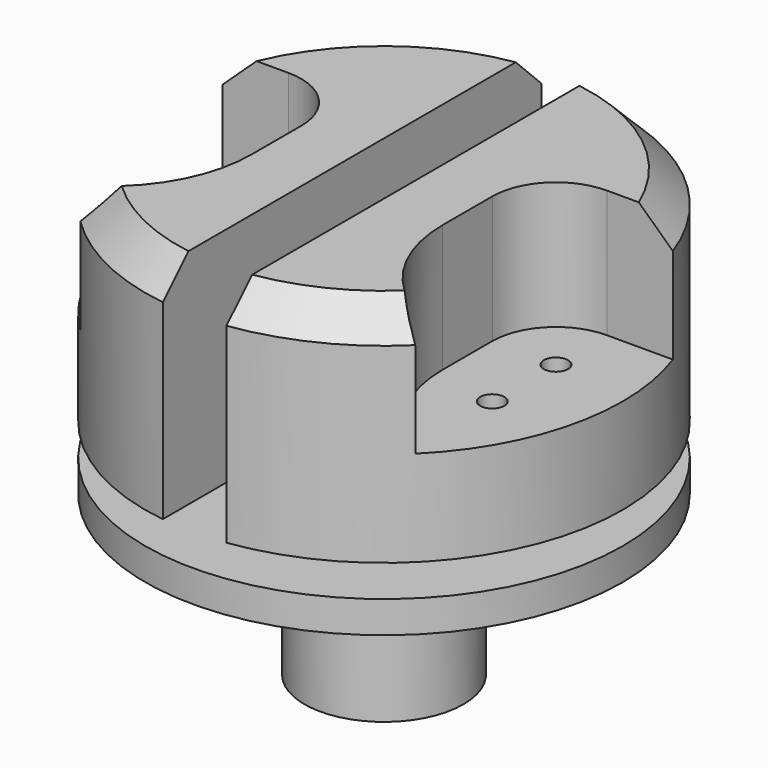
from build123d import *

# Parameters (mm, degrees)
F2_R     = 2.413
F3_DEPTH = 25.4
F4_DEPTH = 50.8
F5_DEPTH = 38.1
F8_SIZE  = 6.35


with BuildPart() as f1:
    # F0 (on Front) → F1 (revolve)
    with BuildSketch(Plane.XZ):
        Polygon((0, 0), (15.875, 0), (15.875, 25.4), (25.4, 25.4), (25.4, 31.75), (47.625, 31.75), (47.625, 38.1), (25.4, 38.1), (25.4, 44.45), (28.9087127894, 44.45), (47.625, 44.45), (47.625, 88.9), (0, 88.9), align=None)
    revolve(axis=Axis((0, 0, 44.45), (0, 0, -1)))

    # F2 (on face) → F3 (cut)
    with BuildSketch(Plane.XY.offset(88.9)):
        with BuildLine():
            ThreePointArc((47.625, 0), (46.9391314035, 8.0534817368), (44.9012806053, 15.875))
            Line((44.9012806053, 15.875), (31.75, 15.875))
            ThreePointArc((31.75, 15.875), (22.7697438789, 12.1552561211), (19.05, 3.175))
            Line((19.05, 3.175), (19.05, -9.1654355234))
            ThreePointArc((19.05, -9.1654355234), (22.8783240869, -23.4529355234), (33.3375, -33.9121114365))
            Line((33.3375, -33.9121114365), (33.4009492811, -33.9487438961))
            ThreePointArc((33.4009492811, -33.9487438961), (43.9252822103, -18.4040812795), (47.625, 0))
        make_face()
        with Locations((31.75, -12.7)):
            Circle(F2_R, mode=Mode.SUBTRACT)
        with Locations((31.75, 3.175)):
            Circle(F2_R, mode=Mode.SUBTRACT)
        with BuildLine():
            Line((-6.35, 47.1997682727), (-6.35, -10.9985226281))
            Line((-6.35, -10.9985226281), (0, -14.6646968374))
            Line((0, -14.6646968374), (6.35, -10.9985226281))
            Line((6.35, -10.9985226281), (6.35, 47.1997682727))
            ThreePointArc((6.35, 47.1997682727), (0, 47.625), (-6.35, 47.1997682727))
        make_face()
        with BuildLine():
            ThreePointArc((-33.3375, -33.9121114365), (-22.8783240869, -23.4529355234), (-19.05, -9.1654355234))
            Line((-19.05, -9.1654355234), (-19.05, 3.175))
            ThreePointArc((-19.05, 3.175), (-22.7697438789, 12.1552561211), (-31.75, 15.875))
            Line((-31.75, 15.875), (-44.9012806053, 15.875))
            ThreePointArc((-44.9012806053, 15.875), (-46.4048614399, -10.711183863), (-33.4009492811, -33.9487438961))
            Line((-33.4009492811, -33.9487438961), (-33.3375, -33.9121114365))
        make_face()
        with Locations((-31.75, -12.7)):
            Circle(F2_R, mode=Mode.SUBTRACT)
        with Locations((-31.75, 3.175)):
            Circle(F2_R, mode=Mode.SUBTRACT)
        with BuildLine():
            Line((0, -14.6646968374), (-6.35, -18.3308710468))
            Line((-6.35, -18.3308710468), (-6.35, -22.225))
            ThreePointArc((-6.35, -22.225), (0, -15.875), (6.35, -22.225))
            Line((6.35, -22.225), (6.35, -18.3308710468))
            Line((6.35, -18.3308710468), (0, -14.6646968374))
        make_face()
        Polygon((6.35, -10.9985226281), (0, -14.6646968374), (6.35, -18.3308710468), align=None)
        Polygon((-6.35, -10.9985226281), (-6.35, -18.3308710468), (0, -14.6646968374), align=None)
        with Locations((-31.75, 3.175)):
            Circle(F2_R)
        with Locations((-31.75, -12.7)):
            Circle(F2_R)
        with Locations((31.75, -12.7)):
            Circle(F2_R)
        with Locations((31.75, 3.175)):
            Circle(F2_R)
    extrude(amount=-F3_DEPTH, mode=Mode.SUBTRACT)

    # F2 (on face) → F4 (cut)
    with BuildSketch(Plane.XY.offset(88.9)):
        with BuildLine():
            ThreePointArc((6.35, -22.225), (0, -15.875), (-6.35, -22.225))
            Line((-6.35, -22.225), (6.35, -22.225))
        make_face()
        with BuildLine():
            Line((-6.35, -22.225), (-6.35, -47.1997682727))
            ThreePointArc((-6.35, -47.1997682727), (0, -47.625), (6.35, -47.1997682727))
            Line((6.35, -47.1997682727), (6.35, -22.225))
            Line((6.35, -22.225), (-6.35, -22.225))
        make_face()
    extrude(amount=-F4_DEPTH, mode=Mode.SUBTRACT)

    # F2 (on face) → F5 (cut)
    with BuildSketch(Plane.XY.offset(88.9)):
        with Locations((-31.75, 3.175)):
            Circle(F2_R)
        with Locations((-31.75, -12.7)):
            Circle(F2_R)
        with Locations((31.75, 3.175)):
            Circle(F2_R)
        with Locations((31.75, -12.7)):
            Circle(F2_R)
    extrude(amount=-F5_DEPTH, mode=Mode.SUBTRACT)

    # F8
    f8_edges = [f1.edges().sort_by_distance(p)[0] for p in [
        (20.950702, -42.76925, 88.9),
        (-20.950702, -42.76925, 88.9),
        (-30.033044, 36.96156, 88.9),
        (30.033044, 36.96156, 88.9),
    ]]
    chamfer(f8_edges, length=F8_SIZE)


solid = f1.part
